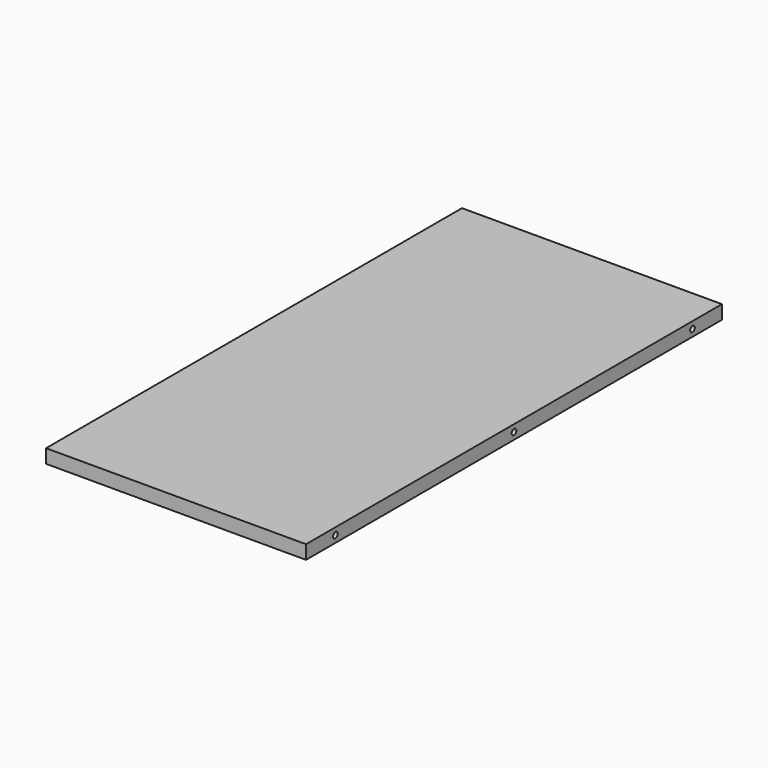
from build123d import *

# Parameters (mm, degrees)
F0_W     = 358.775
F0_H     = 717.55
F1_DEPTH = 19.05
F3_D     = 8.001
F3_DEPTH = 25.4
F3_TIP   = 2.4037429064
F5_D     = 8.001
F5_DEPTH = 25.4
F5_TIP   = 2.4037429064
F7_D     = 15.0114
F7_DEPTH = 14.224
F7_TIP   = 4.5098795482


with BuildPart() as f1:
    # F0 (on Top) → F1 (new body)
    with BuildSketch(Plane.XY):
        Rectangle(F0_W, F0_H)
    extrude(amount=F1_DEPTH)

    # F3
    with Locations(Plane(origin=(-179.3875, 0, 0), x_dir=(0, -1, 0), z_dir=(-1, 0, 0))):
        with Locations((-307.975, 9.525), (0, 9.525), (307.975, 9.525)):
            Hole(F3_D / 2, depth=F3_DEPTH)
            with Locations((0, 0, -(F3_DEPTH + F3_TIP / 2))):  # 118° drill point
                Cone(0, F3_D / 2, F3_TIP, mode=Mode.SUBTRACT)

    # F5
    with Locations(Plane.YZ.offset(179.3875)):
        with Locations((-307.975, 9.525), (0, 9.525), (307.975, 9.525)):
            Hole(F5_D / 2, depth=F5_DEPTH)
            with Locations((0, 0, -(F5_DEPTH + F5_TIP / 2))):  # 118° drill point
                Cone(0, F5_D / 2, F5_TIP, mode=Mode.SUBTRACT)

    # F7
    with Locations(Plane(origin=(0, 0, 0), x_dir=(1, 0, 0), z_dir=(0, 0, -1))):
        with Locations((-155.5115, 307.975), (155.5115, 307.975), (155.5115, 0), (-155.5115, 0), (-155.5115, -307.975), (155.5115, -307.975)):
            Hole(F7_D / 2, depth=F7_DEPTH)
            with Locations((0, 0, -(F7_DEPTH + F7_TIP / 2))):  # 118° drill point
                Cone(0, F7_D / 2, F7_TIP, mode=Mode.SUBTRACT)


solid = f1.part
